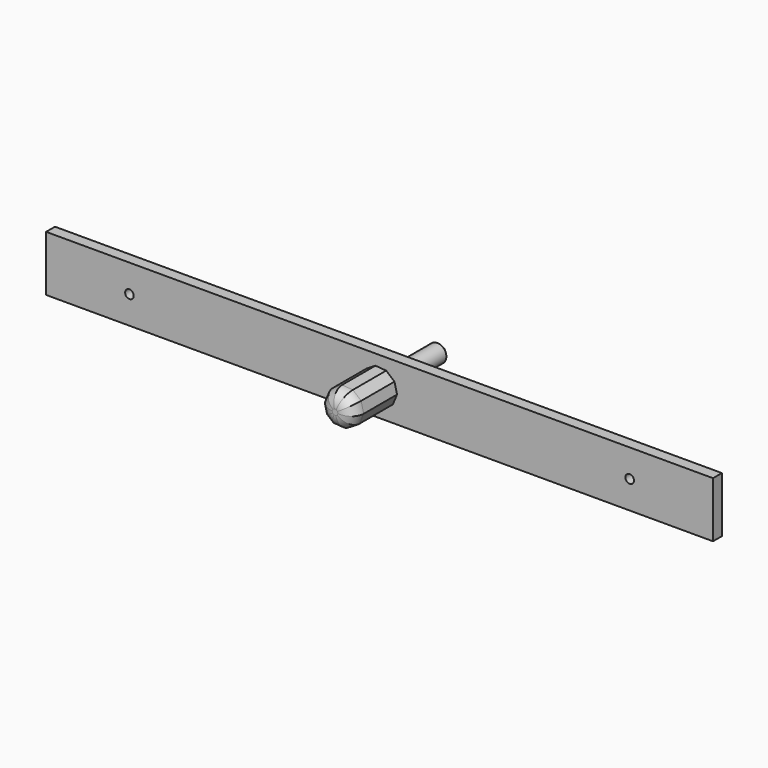
from build123d import *

# Parameters (mm, degrees)
F0_W     = 240
F0_H     = 20
F1_DEPTH = 4
F3_DEPTH = 20
F4_R     = 5
F5_R     = 3.25
F6_DEPTH = 25
F7_SIZE  = 3
F8_R     = 1.55
F9_DEPTH = 25


with BuildPart() as f1:
    # F0 (on Front) → F1 (new body)
    with BuildSketch(Plane.XZ):
        Rectangle(F0_W, F0_H)
    extrude(amount=F1_DEPTH)

    # F2 (on face) → F3 (join)
    with BuildSketch(Plane.XZ.offset(4)):
        Polygon((5.370641, 3.310112), (2.399305, 5.83472), (-1.488484, 6.130664), (-4.807723, 4.084902), (-6.290574, 0.478847), (-5.370641, -3.310112), (-2.399305, -5.83472), (1.488484, -6.130664), (4.807723, -4.084902), (6.290574, -0.478847), align=None)
    extrude(amount=F3_DEPTH)

    # F4
    f4_edges = [f1.edges().sort_by_distance(p)[0] for p in [
        (5.549149, -24, -2.281874),
        (5.830608, -24, 1.415633),
        (3.884973, -24, 4.572416),
        (0.45541, -24, 5.982692),
        (-3.148103, -24, 5.107783),
        (-5.549149, -24, 2.281874),
        (-5.830608, -24, -1.415633),
        (-3.884973, -24, -4.572416),
        (-0.45541, -24, -5.982692),
        (3.148103, -24, -5.107783),
    ]]
    fillet(f4_edges, radius=F4_R)

    # F5 (on face) → F6 (join)
    with BuildSketch(Plane(origin=(0, 0, 0), x_dir=(-1, 0, 0), z_dir=(0, 1, 0))):
        Circle(F5_R)
    extrude(amount=F6_DEPTH)

    # F7
    f7_edges = [f1.edges().sort_by_distance(p)[0] for p in [
        (3.25, 25, 0),
    ]]
    chamfer(f7_edges, length=F7_SIZE)

    # F8 (on face) → F9 (cut)
    with BuildSketch(Plane(origin=(0, 0, 0), x_dir=(-1, 0, 0), z_dir=(0, 1, 0))):
        with Locations((-90, 0)):
            Circle(F8_R)
        with Locations((90, 0)):
            Circle(F8_R)
    extrude(amount=-F9_DEPTH, mode=Mode.SUBTRACT)


solid = f1.part
